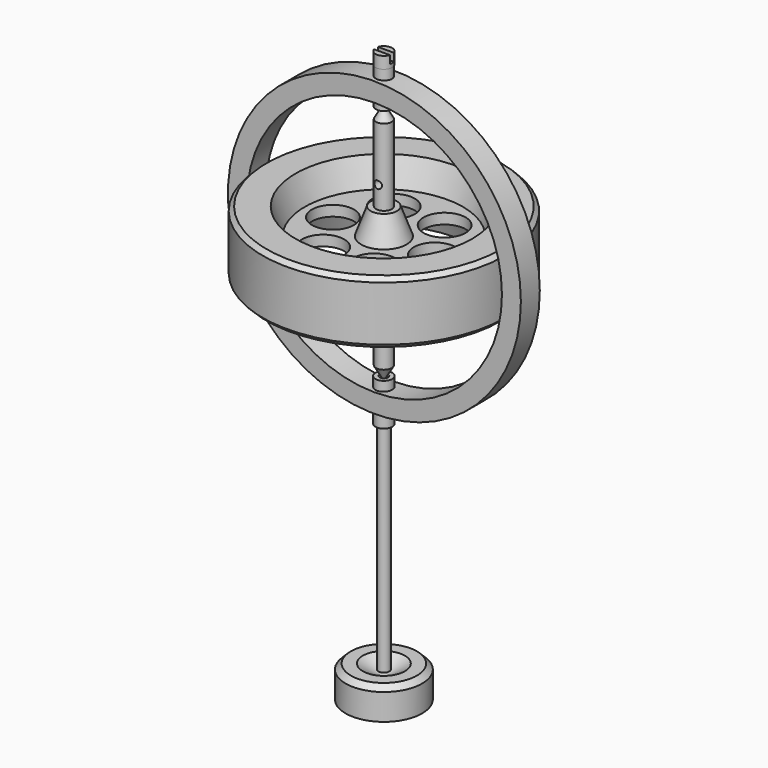
from build123d import *

# Parameters (mm, degrees)
F2_R           = 6.35
F3_DEPTH       = 9.526
F3_DEPTH_BACK  = 9.526
F4_R           = 44.196
F4_R_2         = 38.481
F5_DEPTH       = 3.5687
F6_R           = 2.5019
F7_DEPTH       = 44.197
F8_R           = 2.0193
F9_DEPTH       = 44.1970001
F10_SIZE       = 1.27
F13_R          = 1.143
F14_DEPTH      = 25.4
F14_DEPTH_BACK = 25.4
F19_DEPTH      = 73.152
F22_W          = 5.8579339155
F22_H          = 1.524
F23_DEPTH      = 2.3876


with BuildPart() as f1:
    # F0 (on Front) → F1 (revolve)
    with BuildSketch(Plane.XZ):
        Polygon((26.67, -9.525), (36.576, -9.525), (36.576, 9.525), (26.67, 9.525), (23.876, 1.5748), (6.858, 1.5748), (3.9643638435, 9.525), (2.3876, 9.525), (2.3876, -9.525), (3.9643638435, -9.525), (6.858, -1.5748), (23.876, -1.5748), align=None)
    revolve(axis=Axis((0, 0, 0), (0, 0, 1)))

    # F2 (on Top) → F3 (cut, two sides)
    with BuildSketch(Plane.XY) as f3_sk:
        with Locations((15.367, 0)):
            Circle(F2_R)
        with Locations((7.6835, 13.30821238)):
            Circle(F2_R)
        with Locations((-7.6835, 13.30821238)):
            Circle(F2_R)
        with Locations((-15.367, 0)):
            Circle(F2_R)
        with Locations((-7.6835, -13.30821238)):
            Circle(F2_R)
        with Locations((7.6835, -13.30821238)):
            Circle(F2_R)
    extrude(amount=F3_DEPTH, mode=Mode.SUBTRACT)
    extrude(f3_sk.sketch, amount=-F3_DEPTH_BACK, mode=Mode.SUBTRACT)

    # F10
    f10_edges = [f1.edges().sort_by_distance(p)[0] for p in [
        (-36.576, 0, 9.525),
        (-36.576, 0, -9.525),
    ]]
    chamfer(f10_edges, length=F10_SIZE)


with BuildPart() as f5:
    # F4 (on Front) → F5 (new body, symmetric)
    with BuildSketch(Plane.XZ):
        Circle(F4_R)
        Circle(F4_R_2, mode=Mode.SUBTRACT)
    extrude(amount=F5_DEPTH, both=True)

    # F6 (on Top) → F7 (cut, through all)
    with BuildSketch(Plane.XY):
        Circle(F6_R)
    extrude(amount=-F7_DEPTH, mode=Mode.SUBTRACT)

    # F8 (on Top) → F9 (cut, through all)
    with BuildSketch(Plane.XY):
        Circle(F8_R)
    extrude(amount=F9_DEPTH, mode=Mode.SUBTRACT)


with BuildPart() as f12:
    # F11 (on Front) → F12 (revolve)
    with BuildSketch(Plane.XZ):
        Polygon((2.3876, 32.6945554918), (0, 36.83), (0, -36.83), (2.3876, -32.6945554918), align=None)
    revolve(axis=Axis((0, 0, 0), (0, 0, -1)))

    # F13 (on Front) → F14 (cut, two sides)
    with BuildSketch(Plane.XZ) as f14_sk:
        with Locations((0, 16.1798)):
            Circle(F13_R)
    extrude(amount=-F14_DEPTH, mode=Mode.SUBTRACT)
    extrude(f14_sk.sketch, amount=F14_DEPTH_BACK, mode=Mode.SUBTRACT)


with BuildPart() as f16:
    # F15 (on Front) → F16 (revolve)
    with BuildSketch(Plane.XZ):
        Polygon((2.54, -35.56), (1.27, -35.56), (0, -36.83), (0, -40.386), (1.651, -40.386), (1.651, -48.26), (2.54, -48.26), align=None)
    revolve(axis=Axis((0, 0, -41.91), (0, 0, -1)))


with BuildPart() as f18:
    # F17 (on Front) → F18 (revolve)
    with BuildSketch(Plane.XZ):
        Polygon((0, 36.83), (0.7874, 36.0426), (2.413, 36.0426), (2.413, 47.1678), (2.5019, 47.1678), (2.5019, 50.7492), (0, 50.7492), align=None)
    revolve(axis=Axis((0, 0, 43.3959), (0, 0, 1)))

    # F22 (on face) → F23 (cut)
    with BuildSketch(Plane.XY.offset(50.7492)):
        Rectangle(F22_W, F22_H)
    extrude(amount=-F23_DEPTH, mode=Mode.SUBTRACT)


with BuildPart() as f19:
    # F19 (new): a face of the model
    f19_faces = [f16.part.faces().sort_by_distance(p)[0] for p in [
        (0, 0, -40.386),
    ]]
    extrude(f19_faces, amount=F19_DEPTH)


with BuildPart() as f21:
    # F20 (on Front) → F21 (revolve)
    with BuildSketch(Plane.XZ):
        Polygon((0, -115.6166742094), (-6.35, -111.9505), (-9.9595271558, -111.9505), (-11.5470271558, -113.538), (-11.5470271558, -121.4755), (0, -121.4755), align=None)
    revolve(axis=Axis((0, 0, -116.713), (0, 0, -1)))


solid = Compound([f1.part, f5.part, f12.part, f16.part, f18.part, f19.part, f21.part])
